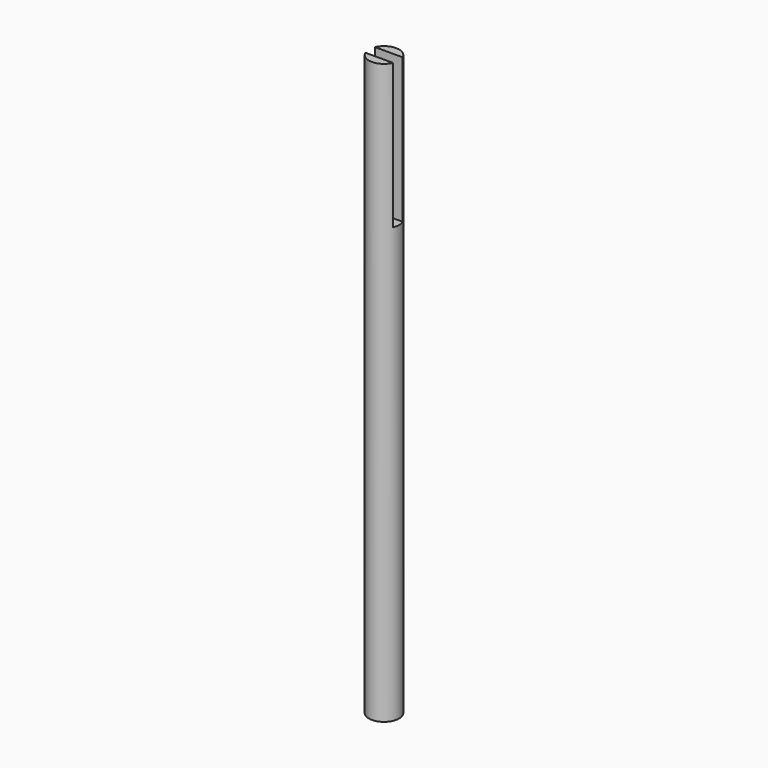
from build123d import *

# Parameters (mm, degrees)
F0_R     = 31.75
F1_DEPTH = 609.6
F3_DEPTH = 304.8


with BuildPart() as f1:
    # F0 (on Top) → F1 (new body, symmetric)
    with BuildSketch(Plane.XY):
        Circle(F0_R)
    extrude(amount=F1_DEPTH, both=True)

    # F2 (on face) → F3 (cut)
    with BuildSketch(Plane.XY.offset(609.6)):
        with BuildLine():
            Line((29.099356, 12.7), (-29.099356, 12.7))
            ThreePointArc((-29.099356, 12.7), (-31.75, 0), (-29.099356, -12.7))
            Line((-29.099356, -12.7), (29.099356, -12.7))
            ThreePointArc((29.099356, -12.7), (31.75, 0), (29.099356, 12.7))
        make_face()
    extrude(amount=-F3_DEPTH, mode=Mode.SUBTRACT)


solid = f1.part
